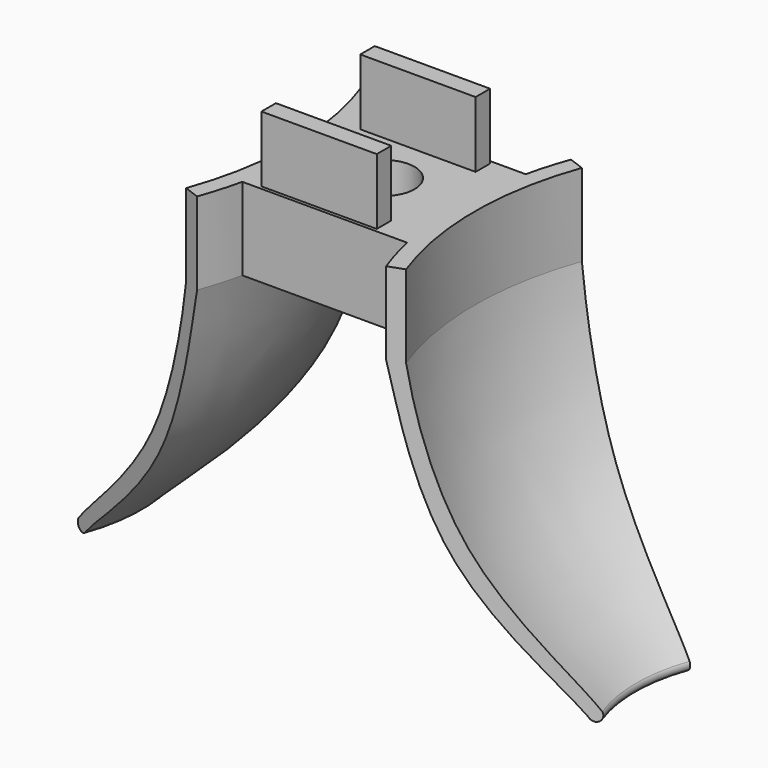
from build123d import *

# Parameters (mm, degrees)
F0_W          = 10
F0_H          = 9
F0_R          = 1.85
F1_DEPTH      = 5
F5_ANGLE_BACK = 20
F5_ANGLE      = 40
F6_W          = 7
F6_H          = 1.5
F7_DEPTH      = 4
F8_W          = 0.2
F8_H          = 4
F9_DEPTH      = 25
F10_COUNT     = 2


with BuildPart() as f1:
    # F0 (on Top) → F1 (new body)
    with BuildSketch(Plane.XY):
        with Locations((5, -4.5)):
            Rectangle(F0_W, F0_H)
        with Locations((5, -4.5)):
            Circle(F0_R, mode=Mode.SUBTRACT)
    extrude(amount=F1_DEPTH)

    # F6 (on face) → F7 (join)
    with BuildSketch(Plane.XY.offset(5)):
        with Locations((4.5, -8.25)):
            Rectangle(F6_W, F6_H)
        with Locations((4.5, -0.75)):
            Rectangle(F6_W, F6_H)
    extrude(amount=F7_DEPTH)

    # F8 (on face) → F9 (cut)
    with BuildSketch(Plane.YZ.offset(10)):
        with Locations((-7.6, 7)):
            Rectangle(F8_W, F8_H)
        with Locations((-8.9, 7)):
            Rectangle(F8_W, F8_H)
        with Locations((-0.1, 7)):
            Rectangle(F8_W, F8_H)
        with Locations((-1.4, 7)):
            Rectangle(F8_W, F8_H)
    extrude(amount=-F9_DEPTH, mode=Mode.SUBTRACT)



with BuildPart() as f5:
    # F3 (on offset) → F5 (revolve)
    with BuildSketch(Plane.XZ.offset(4.5), mode=Mode.PRIVATE) as f5_sk:
        with BuildLine():
            Line((0.5, 5), (0, 5))
            Line((0, 5), (-0.5, 5))
            Line((-0.5, 5), (-0.5, 0))
            add(Edge.make_bspline(
                [(-0.5, 0), (-0.7940392474, -1.8718490053), (-2.3993364256, -10.2948176613), (-9.1089938236, -15.538515672), (-10.3149545762, -17)],
                knots=[0, 0, 0, 0, 0.5, 1, 1, 1, 1], degree=3))
            ThreePointArc((-10.3149545762, -17), (-10.1685444147, -17.5464101615), (-9.6221342532, -17.4))
            add(Edge.make_bspline(
                [(-9.6221342532, -17.4), (-8.3348966668, -15.9883498775), (-1.3566520207, -10.8349816991), (0.0036717937, -2.0199950425), (0.5, 0)],
                knots=[0, 0, 0, 0, 0.4942337757, 1, 1, 1, 1], degree=3))
            Line((0.5, 0), (0.5, 5))
        make_face()
    revolve(f5_sk.sketch.rotate(Axis((-20, -4.5, 1.4354154991), (0, 0, -1)), -F5_ANGLE_BACK), axis=Axis((-20, -4.5, 1.4354154991), (0, 0, -1)), revolution_arc=F5_ANGLE)


with BuildPart() as f1_1:
    add(f1.part)

    add(f5.part)  # F10 merges F5
    # F10: F5 ×2 about axis
    f10_axis = Axis((5, -4.5, 0), (0, 0, -1))
    for i in range(1, F10_COUNT):
        add(f5.part.rotate(f10_axis, i * 360 / F10_COUNT))


solid = f1_1.part
